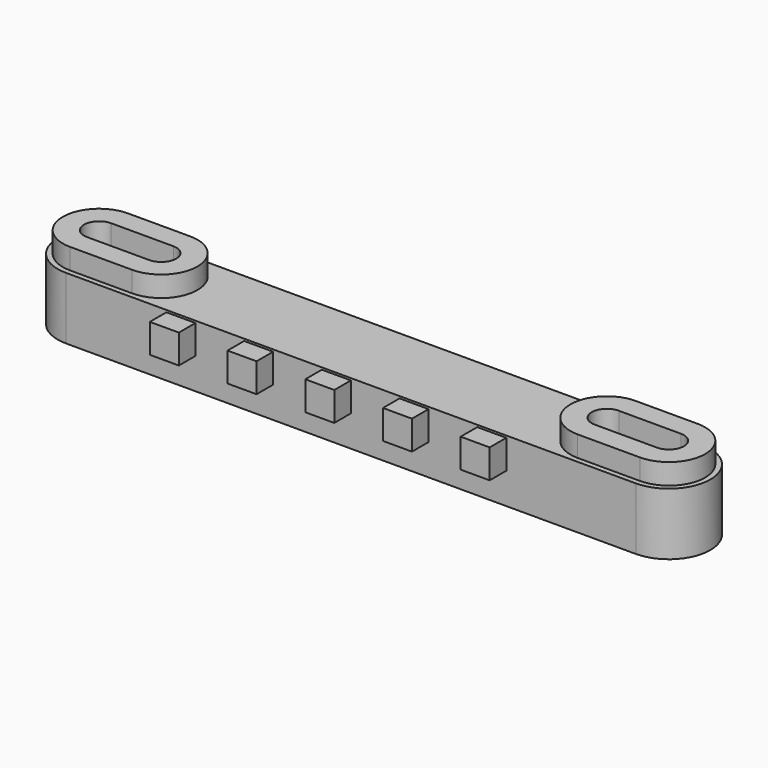
from build123d import *

# Parameters (mm, degrees)
PAD_DEPTH           = 6
PAD001_DEPTH        = 2
SKETCH002_W         = 2.8
SKETCH002_H         = 2.8
PAD002_DEPTH        = 2
LINEARPATTERN_COUNT = 5
LINEARPATTERN_PITCH = 7.5


with BuildPart() as part:
    # Sketch → Pad (new body)
    with BuildSketch(Plane.XY):
        with BuildLine():
            Line((-27.5, 4), (27.5, 4))
            ThreePointArc((27.5, -4), (31.5, 0), (27.5, 4))
            Line((27.5, -4), (-27.5, -4))
            ThreePointArc((-27.5, 4), (-31.5, 0), (-27.5, -4))
        make_face()
        with BuildLine():
            ThreePointArc((-27.5, 3.2), (-30.7, 0), (-27.5, -3.2))
            Line((-27.5, -3.2), (-21.5, -3.2))
            ThreePointArc((-21.5, -3.2), (-18.3, 0), (-21.5, 3.2))
            Line((-27.5, 3.2), (-21.5, 3.2))
        make_face(mode=Mode.SUBTRACT)
        with BuildLine():
            ThreePointArc((21.5, 3.2), (18.3, 0), (21.5, -3.2))
            Line((21.5, -3.2), (27.5, -3.2))
            ThreePointArc((27.5, -3.2), (30.7, 0), (27.5, 3.2))
            Line((21.5, 3.2), (27.5, 3.2))
        make_face(mode=Mode.SUBTRACT)
    extrude(amount=PAD_DEPTH)

    # Sketch001 → Pad001 (new body)
    with BuildSketch(Plane.XY.offset(6)):
        with BuildLine():
            ThreePointArc((-27.5, 3.5), (-31, 0), (-27.5, -3.5))
            Line((-27.5, -3.5), (-21.5, -3.5))
            ThreePointArc((-21.5, -3.5), (-18, 0), (-21.5, 3.5))
            Line((-27.5, 3.5), (-21.5, 3.5))
        make_face()
        with BuildLine():
            ThreePointArc((-27.5, 1.45), (-28.95, 0), (-27.5, -1.45))
            Line((-27.5, -1.45), (-21.5, -1.45))
            ThreePointArc((-21.5, -1.45), (-20.05, 0), (-21.5, 1.45))
            Line((-27.5, 1.45), (-21.5, 1.45))
        make_face(mode=Mode.SUBTRACT)
        with BuildLine():
            ThreePointArc((21.5, 3.5), (18, 0), (21.5, -3.5))
            Line((21.5, -3.5), (27.499981, -3.5))
            ThreePointArc((27.499981, -3.5), (31, -9e-06), (27.5, 3.5))
            Line((21.5, 3.5), (27.5, 3.5))
        make_face()
        with BuildLine():
            ThreePointArc((21.5, 1.45), (20.05, 0), (21.5, -1.45))
            Line((21.5, -1.45), (27.5, -1.45))
            ThreePointArc((27.5, -1.45), (28.95, 0), (27.5, 1.45))
            Line((21.5, 1.45), (27.5, 1.45))
        make_face(mode=Mode.SUBTRACT)
    extrude(amount=PAD001_DEPTH)

    # Sketch002 → Pad002 (new body)
    with BuildSketch(Plane.XZ.offset(4)):
        with Locations((13.6, 4.4)):
            Rectangle(SKETCH002_W, SKETCH002_H)
    pad002 = extrude(amount=PAD002_DEPTH)

    # LinearPattern: Pad002 ×5
    with Locations(*[(-i * LINEARPATTERN_PITCH, 0, 0) for i in range(1, LINEARPATTERN_COUNT)]):
        add(pad002)


solid = part.part
